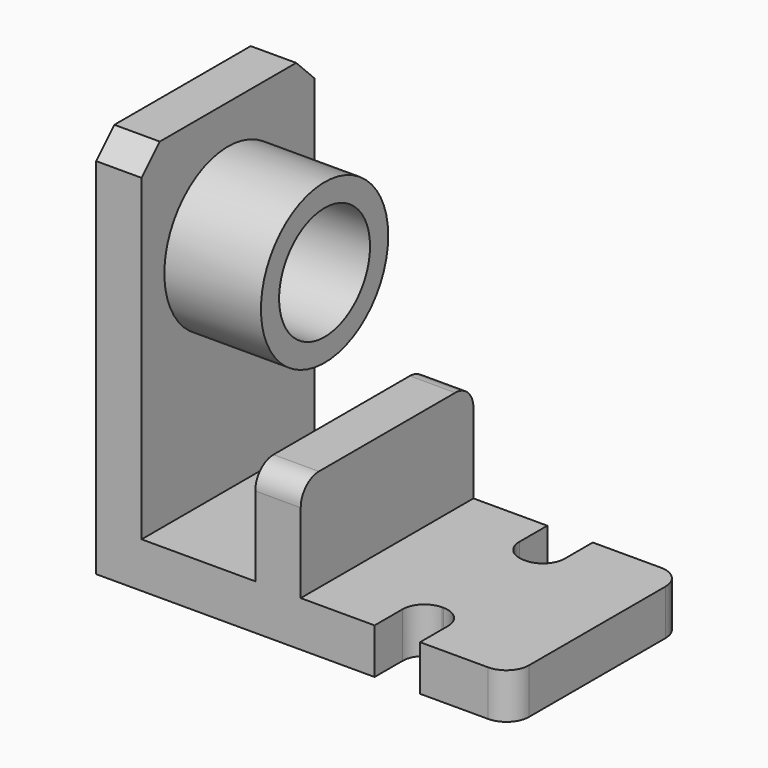
from build123d import *

# Parameters (mm, degrees)
F0_W      = 8
F0_H      = 68
F1_DEPTH  = 38
F2_SIZE   = 4
F3_W      = 38
F3_H      = 8
F4_DEPTH  = 65
F5_W      = 8
F5_H      = 38
F6_DEPTH  = 18
F7_R      = 4
F8_R      = 4
F9_W      = 8
F9_H      = 10
F10_DEPTH = 25
F11_R     = 3.862742
F12_R     = 14
F13_DEPTH = 17
F14_R     = 10
F15_DEPTH = 100


with BuildPart() as f1:
    # F0 (on Front) → F1 (new body)
    with BuildSketch(Plane.XZ):
        Rectangle(F0_W, F0_H)
    extrude(amount=-F1_DEPTH)

    # F2
    f2_edges = [f1.edges().sort_by_distance(p)[0] for p in [
        (0, 0, 34),
        (0, 38, 34),
    ]]
    chamfer(f2_edges, length=F2_SIZE)

    # F3 (on face) → F4 (join)
    with BuildSketch(Plane.YZ.offset(4)):
        with Locations((19, -30)):
            Rectangle(F3_W, F3_H)
    extrude(amount=F4_DEPTH)

    # F5 (on face) → F6 (join)
    with BuildSketch(Plane.XY.offset(-26)):
        with Locations((28, 19)):
            Rectangle(F5_W, F5_H)
    extrude(amount=F6_DEPTH)

    # F7
    f7_edges = [f1.edges().sort_by_distance(p)[0] for p in [
        (28, 0, -8),
        (28, 38, -8),
    ]]
    fillet(f7_edges, radius=F7_R)

    # F8
    f8_edges = [f1.edges().sort_by_distance(p)[0] for p in [
        (69, 38, -30),
        (69, 0, -30),
    ]]
    fillet(f8_edges, radius=F8_R)

    # F9 (on face) → F10 (cut)
    with BuildSketch(Plane.XY.offset(-26)):
        with Locations((49, 33)):
            Rectangle(F9_W, F9_H)
        with Locations((49, 5)):
            Rectangle(F9_W, F9_H)
    extrude(amount=-F10_DEPTH, mode=Mode.SUBTRACT)

    # F11
    f11_edges = [f1.edges().sort_by_distance(p)[0] for p in [
        (45, 28, -30),
        (53, 28, -30),
        (45, 10, -30),
        (53, 10, -30),
    ]]
    fillet(f11_edges, radius=F11_R)

    # F12 (on face) → F13 (join)
    with BuildSketch(Plane.YZ.offset(4)):
        with Locations((19, 13.152632)):
            Circle(F12_R)
    extrude(amount=F13_DEPTH)

    # F14 (on face) → F15 (cut)
    with BuildSketch(Plane.YZ.offset(21)):
        with Locations((19, 13.152632)):
            Circle(F14_R)
    extrude(amount=-F15_DEPTH, mode=Mode.SUBTRACT)


solid = f1.part
